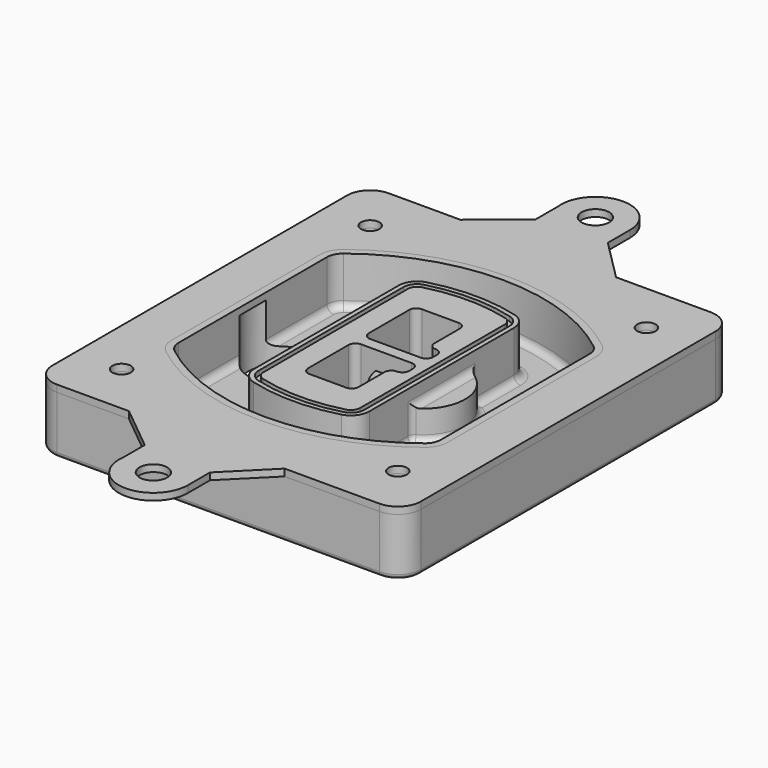
from build123d import *

# Parameters (mm, degrees)
F0_R      = 4
F1_DEPTH  = 25
F2_DEPTH  = 3
F3_DEPTH  = 18
F5_DEPTH  = 21
F6_DEPTH  = 2
F8_DEPTH  = 20
F9_DEPTH  = 16
F10_DEPTH = 25
F7_R      = 6
F7_R_2    = 4
F11_DEPTH = 6
F13_DEPTH = 9
F14_R     = 3
F15_R     = 2
F16_R     = 4
F16_R_2   = 6
F17_DEPTH = 3


with BuildPart() as f1:
    # F0 (on Top) → F1 (new body)
    with BuildSketch(Plane.XY):
        with BuildLine():
            ThreePointArc((-80, -80), (-77.0710678119, -87.0710678119), (-70, -90))
            Line((-70, -90), (70, -90))
            ThreePointArc((70, -90), (77.0710678119, -87.0710678119), (80, -80))
            Line((80, -80), (80, 80))
            ThreePointArc((80, 80), (77.0710678119, 87.0710678119), (70, 90))
            Line((70, 90), (-70, 90))
            ThreePointArc((-70, 90), (-77.0710678119, 87.0710678119), (-80, 80))
            Line((-80, 80), (-80, -80))
        make_face()
        with Locations((-60, -67.5)):
            Circle(F0_R, mode=Mode.SUBTRACT)
        with Locations((60, -67.5)):
            Circle(F0_R, mode=Mode.SUBTRACT)
        with Locations((-60, 67.5)):
            Circle(F0_R, mode=Mode.SUBTRACT)
        with BuildLine():
            ThreePointArc((-64, 40.2934422872), (-62.5820384798, 46.4328484224), (-58.6153846154, 51.3286200352))
            ThreePointArc((-58.6153846154, 51.3286200352), (0, 71.5), (58.6153846154, 51.3286200352))
            ThreePointArc((58.6153846154, 51.3286200352), (62.5820384798, 46.4328484224), (64, 40.2934422872))
            Line((64, 40.2934422872), (64, -40.2934422872))
            ThreePointArc((64, -40.2934422872), (62.5820384798, -46.4328484224), (58.6153846154, -51.3286200352))
            ThreePointArc((58.6153846154, -51.3286200352), (0, -71.5), (-58.6153846154, -51.3286200352))
            ThreePointArc((-58.6153846154, -51.3286200352), (-62.5820384798, -46.4328484224), (-64, -40.2934422872))
            Line((-64, -40.2934422872), (-64, 40.2934422872))
        make_face(mode=Mode.SUBTRACT)
        with Locations((60, 67.5)):
            Circle(F0_R, mode=Mode.SUBTRACT)
        with BuildLine():
            ThreePointArc((58.6153846154, 51.3286200352), (0, 71.5), (-58.6153846154, 51.3286200352))
            ThreePointArc((-58.6153846154, 51.3286200352), (-62.5820384798, 46.4328484224), (-64, 40.2934422872))
            Line((-64, 40.2934422872), (-64, -40.2934422872))
            ThreePointArc((-64, -40.2934422872), (-62.5820384798, -46.4328484224), (-58.6153846154, -51.3286200352))
            ThreePointArc((-58.6153846154, -51.3286200352), (0, -71.5), (58.6153846154, -51.3286200352))
            ThreePointArc((58.6153846154, -51.3286200352), (62.5820384798, -46.4328484224), (64, -40.2934422872))
            Line((64, -40.2934422872), (64, 40.2934422872))
            ThreePointArc((64, 40.2934422872), (62.5820384798, 46.4328484224), (58.6153846154, 51.3286200352))
        make_face()
        with BuildLine():
            Line((-60, -40.2934422872), (-60, 40.2934422872))
            ThreePointArc((-60, 40.2934422872), (-58.9871703427, 44.6787323838), (-56.1538461538, 48.1757121072))
            ThreePointArc((-56.1538461538, 48.1757121072), (0, 67.5), (56.1538461538, 48.1757121072))
            ThreePointArc((56.1538461538, 48.1757121072), (58.9871703427, 44.6787323838), (60, 40.2934422872))
            Line((60, 40.2934422872), (60, -40.2934422872))
            ThreePointArc((60, -40.2934422872), (58.9871703427, -44.6787323838), (56.1538461538, -48.1757121072))
            ThreePointArc((56.1538461538, -48.1757121072), (0, -67.5), (-56.1538461538, -48.1757121072))
            ThreePointArc((-56.1538461538, -48.1757121072), (-58.9871703427, -44.6787323838), (-60, -40.2934422872))
        make_face(mode=Mode.SUBTRACT)
        with BuildLine():
            ThreePointArc((-56.1538461538, 48.1757121072), (-58.9871703427, 44.6787323838), (-60, 40.2934422872))
            Line((-60, 40.2934422872), (-60, -40.2934422872))
            ThreePointArc((-60, -40.2934422872), (-58.9871703427, -44.6787323838), (-56.1538461538, -48.1757121072))
            ThreePointArc((-56.1538461538, -48.1757121072), (0, -67.5), (56.1538461538, -48.1757121072))
            ThreePointArc((56.1538461538, -48.1757121072), (58.9871703427, -44.6787323838), (60, -40.2934422872))
            Line((60, -40.2934422872), (60, 40.2934422872))
            ThreePointArc((60, 40.2934422872), (58.9871703427, 44.6787323838), (56.1538461538, 48.1757121072))
            ThreePointArc((56.1538461538, 48.1757121072), (0, 67.5), (-56.1538461538, 48.1757121072))
        make_face()
        with BuildLine():
            ThreePointArc((54.3076923077, 45.8110311612), (56.2910192399, 43.3631453548), (57, 40.2934422872))
            Line((57, 40.2934422872), (57, -40.2934422872))
            ThreePointArc((57, -40.2934422872), (56.2910192399, -43.3631453548), (54.3076923077, -45.8110311612))
            ThreePointArc((54.3076923077, -45.8110311612), (0, -64.5), (-54.3076923077, -45.8110311612))
            ThreePointArc((-54.3076923077, -45.8110311612), (-56.2910192399, -43.3631453548), (-57, -40.2934422872))
            Line((-57, -40.2934422872), (-57, 40.2934422872))
            ThreePointArc((-57, 40.2934422872), (-56.2910192399, 43.3631453548), (-54.3076923077, 45.8110311612))
            ThreePointArc((-54.3076923077, 45.8110311612), (0, 64.5), (54.3076923077, 45.8110311612))
        make_face(mode=Mode.SUBTRACT)
        with BuildLine():
            Line((57, -40.2934422872), (57, 40.2934422872))
            ThreePointArc((57, 40.2934422872), (56.2910192399, 43.3631453548), (54.3076923077, 45.8110311612))
            ThreePointArc((54.3076923077, 45.8110311612), (0, 64.5), (-54.3076923077, 45.8110311612))
            ThreePointArc((-54.3076923077, 45.8110311612), (-56.2910192399, 43.3631453548), (-57, 40.2934422872))
            Line((-57, 40.2934422872), (-57, -40.2934422872))
            ThreePointArc((-57, -40.2934422872), (-56.2910192399, -43.3631453548), (-54.3076923077, -45.8110311612))
            ThreePointArc((-54.3076923077, -45.8110311612), (0, -64.5), (54.3076923077, -45.8110311612))
            ThreePointArc((54.3076923077, -45.8110311612), (56.2910192399, -43.3631453548), (57, -40.2934422872))
        make_face()
    extrude(amount=-F1_DEPTH)

    # F0 (on Top) → F2 (join)
    with BuildSketch(Plane.XY):
        with BuildLine():
            ThreePointArc((-56.1538461538, 48.1757121072), (-58.9871703427, 44.6787323838), (-60, 40.2934422872))
            Line((-60, 40.2934422872), (-60, -40.2934422872))
            ThreePointArc((-60, -40.2934422872), (-58.9871703427, -44.6787323838), (-56.1538461538, -48.1757121072))
            ThreePointArc((-56.1538461538, -48.1757121072), (0, -67.5), (56.1538461538, -48.1757121072))
            ThreePointArc((56.1538461538, -48.1757121072), (58.9871703427, -44.6787323838), (60, -40.2934422872))
            Line((60, -40.2934422872), (60, 40.2934422872))
            ThreePointArc((60, 40.2934422872), (58.9871703427, 44.6787323838), (56.1538461538, 48.1757121072))
            ThreePointArc((56.1538461538, 48.1757121072), (0, 67.5), (-56.1538461538, 48.1757121072))
        make_face()
        with BuildLine():
            ThreePointArc((54.3076923077, 45.8110311612), (56.2910192399, 43.3631453548), (57, 40.2934422872))
            Line((57, 40.2934422872), (57, -40.2934422872))
            ThreePointArc((57, -40.2934422872), (56.2910192399, -43.3631453548), (54.3076923077, -45.8110311612))
            ThreePointArc((54.3076923077, -45.8110311612), (0, -64.5), (-54.3076923077, -45.8110311612))
            ThreePointArc((-54.3076923077, -45.8110311612), (-56.2910192399, -43.3631453548), (-57, -40.2934422872))
            Line((-57, -40.2934422872), (-57, 40.2934422872))
            ThreePointArc((-57, 40.2934422872), (-56.2910192399, 43.3631453548), (-54.3076923077, 45.8110311612))
            ThreePointArc((-54.3076923077, 45.8110311612), (0, 64.5), (54.3076923077, 45.8110311612))
        make_face(mode=Mode.SUBTRACT)
    extrude(amount=F2_DEPTH)

    # F0 (on Top) → F3 (cut)
    with BuildSketch(Plane.XY):
        with BuildLine():
            Line((57, -40.2934422872), (57, 40.2934422872))
            ThreePointArc((57, 40.2934422872), (56.2910192399, 43.3631453548), (54.3076923077, 45.8110311612))
            ThreePointArc((54.3076923077, 45.8110311612), (0, 64.5), (-54.3076923077, 45.8110311612))
            ThreePointArc((-54.3076923077, 45.8110311612), (-56.2910192399, 43.3631453548), (-57, 40.2934422872))
            Line((-57, 40.2934422872), (-57, -40.2934422872))
            ThreePointArc((-57, -40.2934422872), (-56.2910192399, -43.3631453548), (-54.3076923077, -45.8110311612))
            ThreePointArc((-54.3076923077, -45.8110311612), (0, -64.5), (54.3076923077, -45.8110311612))
            ThreePointArc((54.3076923077, -45.8110311612), (56.2910192399, -43.3631453548), (57, -40.2934422872))
        make_face()
    extrude(amount=-F3_DEPTH, mode=Mode.SUBTRACT)

    # F4 (on face) → F5 (join, through all)
    with BuildSketch(Plane.XY.offset(3)):
        with BuildLine():
            ThreePointArc((-25, -39.2465276821), (-23.3511545998, -44.1109737193), (-19.0842911877, -46.9702398883))
            ThreePointArc((-19.0842911877, -46.9702398883), (0, -49.5), (19.0842911877, -46.9702398883))
            ThreePointArc((19.0842911877, -46.9702398883), (23.3511545998, -44.1109737193), (25, -39.2465276821))
            Line((25, -39.2465276821), (25, 39.2465276821))
            ThreePointArc((25, 39.2465276821), (23.3511545998, 44.1109737193), (19.0842911877, 46.9702398883))
            ThreePointArc((19.0842911877, 46.9702398883), (0, 49.5), (-19.0842911877, 46.9702398883))
            ThreePointArc((-19.0842911877, 46.9702398883), (-23.3511545998, 44.1109737193), (-25, 39.2465276821))
            Line((-25, 39.2465276821), (-25, -39.2465276821))
        make_face()
        with BuildLine():
            ThreePointArc((18.5632183908, 45.0393118368), (21.7633659499, 42.89486221), (23, 39.2465276821))
            Line((23, 39.2465276821), (23, -39.2465276821))
            ThreePointArc((23, -39.2465276821), (21.7633659499, -42.89486221), (18.5632183908, -45.0393118368))
            ThreePointArc((18.5632183908, -45.0393118368), (0, -47.5), (-18.5632183908, -45.0393118368))
            ThreePointArc((-18.5632183908, -45.0393118368), (-21.7633659499, -42.89486221), (-23, -39.2465276821))
            Line((-23, -39.2465276821), (-23, 39.2465276821))
            ThreePointArc((-23, 39.2465276821), (-21.7633659499, 42.89486221), (-18.5632183908, 45.0393118368))
            ThreePointArc((-18.5632183908, 45.0393118368), (0, 47.5), (18.5632183908, 45.0393118368))
        make_face(mode=Mode.SUBTRACT)
        with BuildLine():
            Line((23, -39.2465276821), (23, 39.2465276821))
            ThreePointArc((23, 39.2465276821), (21.7633659499, 42.89486221), (18.5632183908, 45.0393118368))
            ThreePointArc((18.5632183908, 45.0393118368), (0, 47.5), (-18.5632183908, 45.0393118368))
            ThreePointArc((-18.5632183908, 45.0393118368), (-21.7633659499, 42.89486221), (-23, 39.2465276821))
            Line((-23, 39.2465276821), (-23, -39.2465276821))
            ThreePointArc((-23, -39.2465276821), (-21.7633659499, -42.89486221), (-18.5632183908, -45.0393118368))
            ThreePointArc((-18.5632183908, -45.0393118368), (0, -47.5), (18.5632183908, -45.0393118368))
            ThreePointArc((18.5632183908, -45.0393118368), (21.7633659499, -42.89486221), (23, -39.2465276821))
        make_face()
        with BuildLine():
            ThreePointArc((18.0421455939, 43.1083837852), (20.1755772999, 41.6787507007), (21, 39.2465276821))
            Line((21, 39.2465276821), (21, -39.2465276821))
            ThreePointArc((21, -39.2465276821), (20.1755772999, -41.6787507007), (18.0421455939, -43.1083837852))
            ThreePointArc((18.0421455939, -43.1083837852), (0, -45.5), (-18.0421455939, -43.1083837852))
            ThreePointArc((-18.0421455939, -43.1083837852), (-20.1755772999, -41.6787507007), (-21, -39.2465276821))
            Line((-21, -39.2465276821), (-21, 39.2465276821))
            ThreePointArc((-21, 39.2465276821), (-20.1755772999, 41.6787507007), (-18.0421455939, 43.1083837852))
            ThreePointArc((-18.0421455939, 43.1083837852), (0, 45.5), (18.0421455939, 43.1083837852))
        make_face(mode=Mode.SUBTRACT)
        with BuildLine():
            Line((21, -39.2465276821), (21, 39.2465276821))
            ThreePointArc((21, 39.2465276821), (20.1755772999, 41.6787507007), (18.0421455939, 43.1083837852))
            ThreePointArc((18.0421455939, 43.1083837852), (0, 45.5), (-18.0421455939, 43.1083837852))
            ThreePointArc((-18.0421455939, 43.1083837852), (-20.1755772999, 41.6787507007), (-21, 39.2465276821))
            Line((-21, 39.2465276821), (-21, -39.2465276821))
            ThreePointArc((-21, -39.2465276821), (-20.1755772999, -41.6787507007), (-18.0421455939, -43.1083837852))
            ThreePointArc((-18.0421455939, -43.1083837852), (0, -45.5), (18.0421455939, -43.1083837852))
            ThreePointArc((18.0421455939, -43.1083837852), (20.1755772999, -41.6787507007), (21, -39.2465276821))
        make_face()
        with BuildLine():
            Line((-8, -2.5), (14, -2.5))
            ThreePointArc((14, -2.5), (16.1213203436, -3.3786796564), (17, -5.5))
            Line((17, -5.5), (17, -7.5))
            ThreePointArc((17, -7.5), (16.1213203436, -9.6213203436), (14, -10.5))
            ThreePointArc((14, -10.5), (11.8786796564, -11.3786796564), (11, -13.5))
            Line((11, -13.5), (11, -27.5))
            ThreePointArc((11, -27.5), (10.1213203436, -29.6213203436), (8, -30.5))
            Line((8, -30.5), (-8, -30.5))
            ThreePointArc((-8, -30.5), (-10.1213203436, -29.6213203436), (-11, -27.5))
            Line((-11, -27.5), (-11, -5.5))
            ThreePointArc((-11, -5.5), (-10.1213203436, -3.3786796564), (-8, -2.5))
        make_face(mode=Mode.SUBTRACT)
        with BuildLine():
            ThreePointArc((-8, 2.5), (-10.1213203436, 3.3786796564), (-11, 5.5))
            Line((-11, 5.5), (-11, 27.5))
            ThreePointArc((-11, 27.5), (-10.1213203436, 29.6213203436), (-8, 30.5))
            Line((-8, 30.5), (8, 30.5))
            ThreePointArc((8, 30.5), (10.1213203436, 29.6213203436), (11, 27.5))
            Line((11, 27.5), (11, 13.5))
            ThreePointArc((11, 13.5), (11.8786796564, 11.3786796564), (14, 10.5))
            ThreePointArc((14, 10.5), (16.1213203436, 9.6213203436), (17, 7.5))
            Line((17, 7.5), (17, 5.5))
            ThreePointArc((17, 5.5), (16.1213203436, 3.3786796564), (14, 2.5))
            Line((14, 2.5), (-8, 2.5))
        make_face(mode=Mode.SUBTRACT)
    extrude(amount=-F5_DEPTH)

    # F4 (on face) → F6 (cut)
    with BuildSketch(Plane.XY.offset(3)):
        with BuildLine():
            Line((23, -39.2465276821), (23, 39.2465276821))
            ThreePointArc((23, 39.2465276821), (21.7633659499, 42.89486221), (18.5632183908, 45.0393118368))
            ThreePointArc((18.5632183908, 45.0393118368), (0, 47.5), (-18.5632183908, 45.0393118368))
            ThreePointArc((-18.5632183908, 45.0393118368), (-21.7633659499, 42.89486221), (-23, 39.2465276821))
            Line((-23, 39.2465276821), (-23, -39.2465276821))
            ThreePointArc((-23, -39.2465276821), (-21.7633659499, -42.89486221), (-18.5632183908, -45.0393118368))
            ThreePointArc((-18.5632183908, -45.0393118368), (0, -47.5), (18.5632183908, -45.0393118368))
            ThreePointArc((18.5632183908, -45.0393118368), (21.7633659499, -42.89486221), (23, -39.2465276821))
        make_face()
        with BuildLine():
            ThreePointArc((18.0421455939, 43.1083837852), (20.1755772999, 41.6787507007), (21, 39.2465276821))
            Line((21, 39.2465276821), (21, -39.2465276821))
            ThreePointArc((21, -39.2465276821), (20.1755772999, -41.6787507007), (18.0421455939, -43.1083837852))
            ThreePointArc((18.0421455939, -43.1083837852), (0, -45.5), (-18.0421455939, -43.1083837852))
            ThreePointArc((-18.0421455939, -43.1083837852), (-20.1755772999, -41.6787507007), (-21, -39.2465276821))
            Line((-21, -39.2465276821), (-21, 39.2465276821))
            ThreePointArc((-21, 39.2465276821), (-20.1755772999, 41.6787507007), (-18.0421455939, 43.1083837852))
            ThreePointArc((-18.0421455939, 43.1083837852), (0, 45.5), (18.0421455939, 43.1083837852))
        make_face(mode=Mode.SUBTRACT)
    extrude(amount=-F6_DEPTH, mode=Mode.SUBTRACT)

    # F7 (on face) → F8 (join)
    with BuildSketch(Plane(origin=(0, 0, -25), x_dir=(1, 0, 0), z_dir=(0, 0, -1))):
        with BuildLine():
            ThreePointArc((3.28842436, 0), (16.7567035675, 13.4682792075), (30.224982775, 0))
            Line((30.224982775, 0), (35.224982775, 0))
            ThreePointArc((35.224982775, 0), (16.7567035675, 18.4682792075), (-1.71157564, 0))
            Line((-1.71157564, 0), (3.28842436, 0))
        make_face()
        with BuildLine():
            Line((3.28842436, 0), (30.224982775, 0))
            ThreePointArc((30.224982775, 0), (16.7567035675, 13.4682792075), (3.28842436, 0))
        make_face()
        with BuildLine():
            ThreePointArc((3.28842436, 0), (16.7567035675, -13.4682792075), (30.224982775, 0))
            Line((30.224982775, 0), (3.28842436, 0))
        make_face()
        with BuildLine():
            Line((35.224982775, 0), (30.224982775, 0))
            ThreePointArc((30.224982775, 0), (16.7567035675, -13.4682792075), (3.28842436, 0))
            Line((3.28842436, 0), (-1.71157564, 0))
            ThreePointArc((-1.71157564, 0), (16.7567035675, -18.4682792075), (35.224982775, 0))
        make_face()
    extrude(amount=-F8_DEPTH)

    # F7 (on face) → F9 (cut)
    with BuildSketch(Plane(origin=(0, 0, -25), x_dir=(1, 0, 0), z_dir=(0, 0, -1))):
        with BuildLine():
            Line((3.28842436, 0), (30.224982775, 0))
            ThreePointArc((30.224982775, 0), (16.7567035675, 13.4682792075), (3.28842436, 0))
        make_face()
        with BuildLine():
            ThreePointArc((3.28842436, 0), (16.7567035675, -13.4682792075), (30.224982775, 0))
            Line((30.224982775, 0), (3.28842436, 0))
        make_face()
    extrude(amount=-F9_DEPTH, mode=Mode.SUBTRACT)

    # F7 (on face) → F10 (cut)
    with BuildSketch(Plane(origin=(0, 0, -25), x_dir=(1, 0, 0), z_dir=(0, 0, -1))):
        with BuildLine():
            Line((-59.0318229325, 0), (-32.0952645175, 0))
            ThreePointArc((-32.0952645175, 0), (-45.563543725, 13.4682792075), (-59.0318229325, 0))
        make_face()
        with BuildLine():
            ThreePointArc((-59.0318229325, 0), (-45.563543725, -13.4682792075), (-32.0952645175, 0))
            Line((-32.0952645175, 0), (-59.0318229325, 0))
        make_face()
    extrude(amount=-F10_DEPTH, mode=Mode.SUBTRACT)

    # F7 (on face) → F11 (cut)
    with BuildSketch(Plane(origin=(0, 0, -25), x_dir=(1, 0, 0), z_dir=(0, 0, -1))):
        with Locations((60, -67.5)):
            Circle(F7_R)
        with Locations((60, -67.5)):
            Circle(F7_R_2, mode=Mode.SUBTRACT)
        with Locations((60, -67.5)):
            Circle(F7_R)
        with Locations((60, -67.5)):
            Circle(F7_R_2, mode=Mode.SUBTRACT)
        with Locations((-60, -67.5)):
            Circle(F7_R)
        with Locations((-60, -67.5)):
            Circle(F7_R_2, mode=Mode.SUBTRACT)
        with Locations((-60, -67.5)):
            Circle(F7_R)
        with Locations((-60, -67.5)):
            Circle(F7_R_2, mode=Mode.SUBTRACT)
        with Locations((-60, 67.5)):
            Circle(F7_R)
        with Locations((-60, 67.5)):
            Circle(F7_R_2, mode=Mode.SUBTRACT)
        with Locations((-60, 67.5)):
            Circle(F7_R)
        with Locations((-60, 67.5)):
            Circle(F7_R_2, mode=Mode.SUBTRACT)
        with Locations((60, 67.5)):
            Circle(F7_R)
        with Locations((60, 67.5)):
            Circle(F7_R_2, mode=Mode.SUBTRACT)
        with Locations((60, 67.5)):
            Circle(F7_R)
        with Locations((60, 67.5)):
            Circle(F7_R_2, mode=Mode.SUBTRACT)
    extrude(amount=-F11_DEPTH, mode=Mode.SUBTRACT)

    # F12 (on face) → F13 (cut, through all)
    with BuildSketch(Plane(origin=(0, 0, -9), x_dir=(1, 0, 0), z_dir=(0, 0, -1))):
        with BuildLine():
            Line((11, 13.5), (11, 17.5481537753))
            ThreePointArc((11, 17.5481537753), (2.5696536419, 11.8239143813), (-1.5415842455, 2.5))
            Line((-1.5415842455, 2.5), (3.5224848595, 2.5))
            ThreePointArc((3.5224848595, 2.5), (6.1857188154, 8.3455872281), (11.2536447004, 12.2927168648))
            ThreePointArc((11.2536447004, 12.2927168648), (11.0640958889, 12.8831798879), (11, 13.5))
        make_face()
        with BuildLine():
            ThreePointArc((11.2536447004, -12.2927168648), (6.1857188154, -8.3455872281), (3.5224848595, -2.5))
            Line((3.5224848595, -2.5), (-1.5415842455, -2.5))
            ThreePointArc((-1.5415842455, -2.5), (2.5696536419, -11.8239143813), (11, -17.5481537753))
            Line((11, -17.5481537753), (11, -13.5))
            ThreePointArc((11, -13.5), (11.0640958889, -12.8831798879), (11.2536447004, -12.2927168648))
        make_face()
        with BuildLine():
            ThreePointArc((11.2536447004, 12.2927168648), (6.1857188154, 8.3455872281), (3.5224848595, 2.5))
            Line((3.5224848595, 2.5), (14, 2.5))
            ThreePointArc((14, 2.5), (16.1213203436, 3.3786796564), (17, 5.5))
            Line((17, 5.5), (17, 7.5))
            ThreePointArc((17, 7.5), (16.1213203436, 9.6213203436), (14, 10.5))
            ThreePointArc((14, 10.5), (12.3601599782, 10.9878446101), (11.2536447004, 12.2927168648))
        make_face()
        with BuildLine():
            Line((14, -2.5), (3.5224848595, -2.5))
            ThreePointArc((3.5224848595, -2.5), (6.1857188154, -8.3455872281), (11.2536447004, -12.2927168648))
            ThreePointArc((11.2536447004, -12.2927168648), (12.3601599782, -10.9878446101), (14, -10.5))
            ThreePointArc((14, -10.5), (16.1213203436, -9.6213203436), (17, -7.5))
            Line((17, -7.5), (17, -5.5))
            ThreePointArc((17, -5.5), (16.1213203436, -3.3786796564), (14, -2.5))
        make_face()
    extrude(amount=F13_DEPTH, mode=Mode.SUBTRACT)

    # F14
    f14_edges = [f1.edges().sort_by_distance(p)[0] for p in [
        (-57, -23.703476, -18),
        (-57, 23.703476, -18),
        (25, 0, -5),
        (25, 16.526506, -11.5),
        (25, -16.526506, -11.5),
        (25, -27.886517, -18),
        (35.224983, 0, -18),
    ]]
    fillet(f14_edges, radius=F14_R)

    # F15
    f15_edges = [f1.edges().sort_by_distance(p)[0] for p in [
        (0, -90, -25),
    ]]
    fillet(f15_edges, radius=F15_R)


with BuildPart() as f17:
    # F16 (on face) → F17 (new body)
    with BuildSketch(Plane.XY):
        with BuildLine():
            Line((28.8195218928, 90), (-38.7933869907, 90))
            Line((-38.7933869907, 90), (-70, 90))
            ThreePointArc((-70, 90), (-77.0710678119, 87.0710678119), (-80, 80))
            Line((-80, 80), (-80, -80))
            ThreePointArc((-80, -80), (-77.0710678119, -87.0710678119), (-70, -90))
            Line((-70, -90), (-38.7933869907, -90))
            Line((-38.7933869907, -90), (28.8195218928, -90))
            Line((28.8195218928, -90), (70, -90))
            ThreePointArc((70, -90), (77.0710678119, -87.0710678119), (80, -80))
            Line((80, -80), (80, 80))
            ThreePointArc((80, 80), (77.0710678119, 87.0710678119), (70, 90))
            Line((70, 90), (28.8195218928, 90))
        make_face()
        with Locations((-60, -67.5)):
            Circle(F16_R, mode=Mode.SUBTRACT)
        with Locations((60, -67.5)):
            Circle(F16_R, mode=Mode.SUBTRACT)
        with Locations((-60, 67.5)):
            Circle(F16_R, mode=Mode.SUBTRACT)
        with BuildLine():
            ThreePointArc((-60, 40.2934422872), (-58.9871703427, 44.6787323838), (-56.1538461538, 48.1757121072))
            ThreePointArc((-56.1538461538, 48.1757121072), (0, 67.5), (56.1538461538, 48.1757121072))
            ThreePointArc((56.1538461538, 48.1757121072), (58.9871703427, 44.6787323838), (60, 40.2934422872))
            Line((60, 40.2934422872), (60, -40.2934422872))
            ThreePointArc((60, -40.2934422872), (58.9871703427, -44.6787323838), (56.1538461538, -48.1757121072))
            ThreePointArc((56.1538461538, -48.1757121072), (0, -67.5), (-56.1538461538, -48.1757121072))
            ThreePointArc((-56.1538461538, -48.1757121072), (-58.9871703427, -44.6787323838), (-60, -40.2934422872))
            Line((-60, -40.2934422872), (-60, 40.2934422872))
        make_face(mode=Mode.SUBTRACT)
        with Locations((60, 67.5)):
            Circle(F16_R, mode=Mode.SUBTRACT)
        with BuildLine():
            Line((-19.0566715017, 106.0767553227), (-38.7933869907, 90))
            Line((-38.7933869907, 90), (28.8195218928, 90))
            Line((28.8195218928, 90), (10.8195218928, 108))
            Line((10.8195218928, 108), (10.8195218928, 120))
            ThreePointArc((10.8195218928, 120), (-5.1440908619, 134.9690163491), (-19.0566715017, 118.0767553227))
            Line((-19.0566715017, 118.0767553227), (-19.0566715017, 106.0767553227))
        make_face()
        with Locations((-4.1804781072, 120)):
            Circle(F16_R_2, mode=Mode.SUBTRACT)
        with BuildLine():
            Line((28.8195218928, -90), (-38.7933869907, -90))
            Line((-38.7933869907, -90), (-19.0566715017, -106.0767553227))
            Line((-19.0566715017, -106.0767553227), (-19.0566715017, -118.0767553227))
            ThreePointArc((-19.0566715017, -118.0767553227), (-5.1440908619, -134.9690163491), (10.8195218928, -120))
            Line((10.8195218928, -120), (10.8195218928, -108))
            Line((10.8195218928, -108), (28.8195218928, -90))
        make_face()
        with Locations((-4.1804781072, -120)):
            Circle(F16_R_2, mode=Mode.SUBTRACT)
    extrude(amount=F17_DEPTH)


solid = Compound([f1.part, f17.part])
